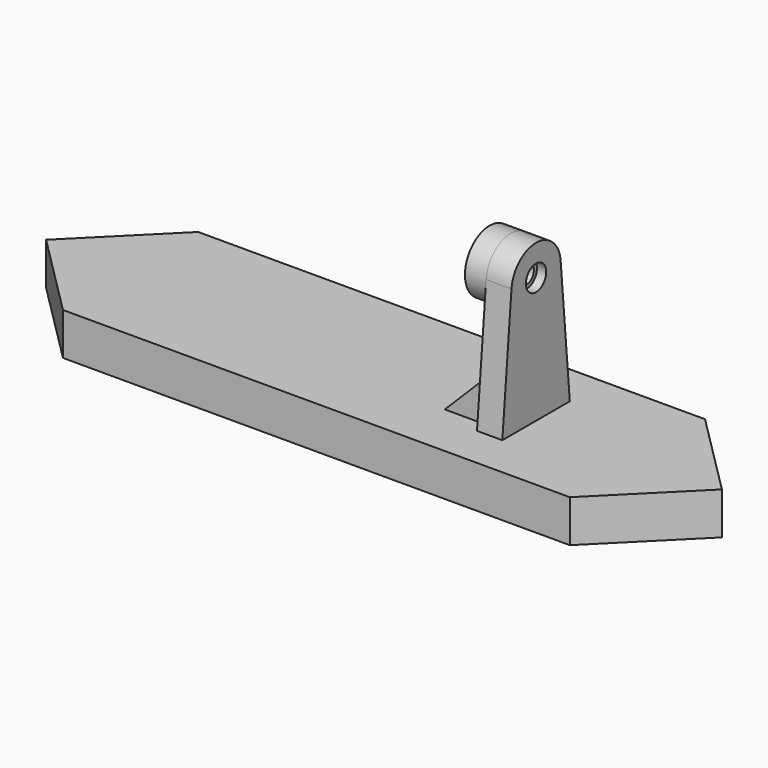
from build123d import *

# Parameters (mm, degrees)
PAD_DEPTH           = 5
SKETCH002_R         = 1.05
PAD001_DEPTH        = 3
SKETCH003_R         = 3.65
SKETCH003_R_2       = 2.5
PAD002_DEPTH        = 2.5
SKETCH004_R         = 1.5
POCKET_DEPTH        = 1.1
PAD003_DEPTH        = 2
LINEARPATTERN_COUNT = 2
LINEARPATTERN_PITCH = 5


with BuildPart() as part:
    # Sketch → Pad (new body)
    with BuildSketch(Plane.XY):
        Polygon((-30, 10), (30, 10), (40, 0), (30, -10), (-30, -10), (-40, 0), align=None)
    extrude(amount=PAD_DEPTH)

    # Sketch002 → Pad001 (join)
    with BuildSketch(Plane.YZ.offset(15)):
        with BuildLine():
            Line((-5, 4.9), (5, 4.9))
            Line((5, 4.9), (3.635617, 20.223706))
            ThreePointArc((3.635617, 20.223706), (0, 23.55), (-3.635617, 20.223706))
            Line((-5, 4.9), (-3.635617, 20.223706))
        make_face()
        with Locations((0, 19.9)):
            Circle(SKETCH002_R, mode=Mode.SUBTRACT)
    extrude(amount=PAD001_DEPTH)

    # Sketch003 (on DatumPlane) → Pad002 (join)
    with BuildSketch(Plane(origin=(15, 0, 0), x_dir=(0, -1, 0), z_dir=(-1, 0, 0))):
        with Locations((0, 19.9)):
            Circle(SKETCH003_R)
        with Locations((0, 19.9)):
            Circle(SKETCH003_R_2, mode=Mode.SUBTRACT)
    extrude(amount=PAD002_DEPTH)

    # Sketch004 (on DatumPlane) → Pocket (cut)
    with BuildSketch(Plane.YZ.offset(18)):
        with Locations((0, 19.9)):
            Circle(SKETCH004_R)
    extrude(amount=-POCKET_DEPTH, mode=Mode.SUBTRACT)

    # Sketch005 → Pad003 (join)
    with BuildSketch(Plane.XZ.offset(1.5)):
        Polygon((10, 5), (15, 10), (15, 5), align=None)
    pad003 = extrude(amount=PAD003_DEPTH)

    # LinearPattern: Pad003 ×2
    with Locations(*[(0, i * LINEARPATTERN_PITCH, 0) for i in range(1, LINEARPATTERN_COUNT)]):
        add(pad003)


solid = part.part
